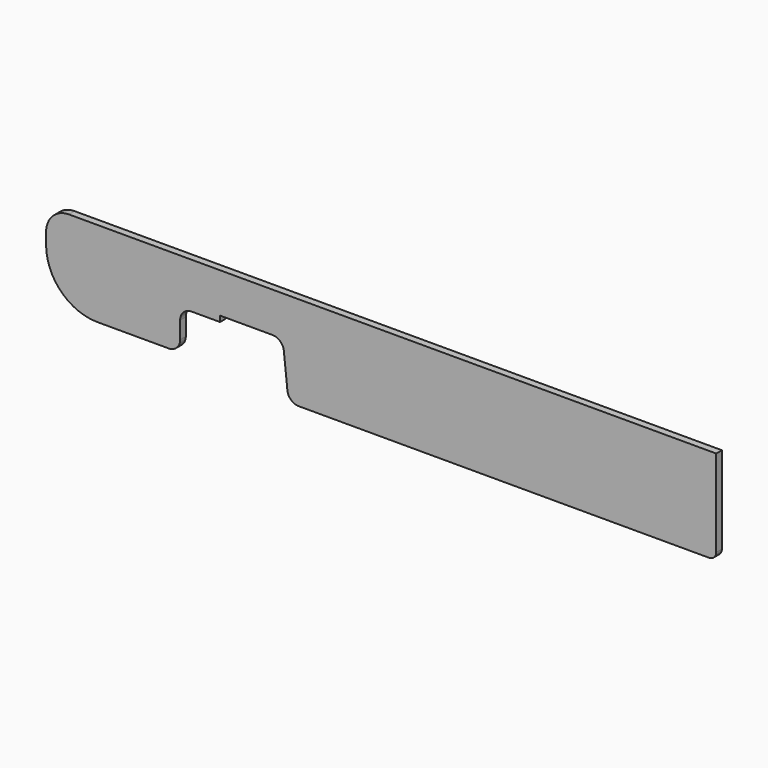
from build123d import *

# Parameters (mm, degrees)
F1_DEPTH = 25


with BuildPart() as f1:
    # F0 (on Front) → F1 (new body)
    with BuildSketch(Plane.XZ):
        with BuildLine():
            Line((0, 25), (0, 330))
            Line((0, 330), (-2270, 330))
            ThreePointArc((-2270, 330), (-2326.568542, 306.568542), (-2350, 250))
            Line((-2350, 250), (-2350, 210))
            ThreePointArc((-2350, 210), (-2297.279221, 82.720779), (-2170, 30))
            Line((-2170, 30), (-1920, 30))
            ThreePointArc((-1920, 30), (-1891.715729, 41.715729), (-1880, 70))
            Line((-1880, 70), (-1880, 130))
            ThreePointArc((-1880, 130), (-1868.284271, 158.284271), (-1840, 170))
            Line((-1840, 170), (-1740, 170))
            Line((-1740, 170), (-1740, 190))
            Line((-1740, 190), (-1556.01047, 190))
            ThreePointArc((-1556.01047, 190), (-1529.247582, 179.727896), (-1516.230252, 154.187391))
            Line((-1516.230252, 154.187391), (-1503.769748, 35.812609))
            ThreePointArc((-1503.769748, 35.812609), (-1490.752418, 10.272104), (-1463.98953, 0))
            Line((-1463.98953, 0), (-25, 0))
            ThreePointArc((-25, 0), (-7.32233, 7.32233), (0, 25))
        make_face()
    extrude(amount=F1_DEPTH)


solid = f1.part
